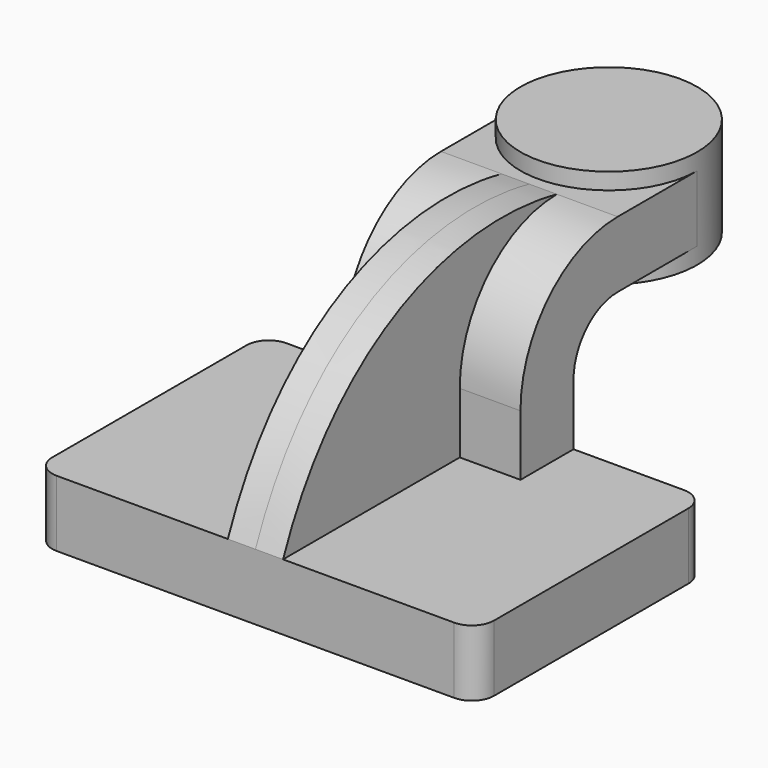
from build123d import *

# Parameters (mm, degrees)
F1_DEPTH = 63.5
F0_W     = 25.4
F0_H     = 19.05
F2_DEPTH = 25.4
F3_DEPTH = 7.9375
F5_R     = 6.35


with BuildPart() as f1:
    # F0 (on Right) → F1 (new body, symmetric)
    with BuildSketch(Plane.YZ):
        Polygon((41.275, -9.525), (41.275, 9.525), (22.225, 9.525), (-41.275, 9.525), (-41.275, -9.525), align=None)
    extrude(amount=F1_DEPTH, both=True)

    # F0 (on Right) → F2 (join, symmetric)
    with BuildSketch(Plane.YZ):
        with BuildLine():
            Line((22.225, 9.525), (41.275, 9.525))
            Line((41.275, 9.525), (41.275, 27.0002))
            ThreePointArc((41.275, 27.0002), (45.9246798487, 38.2255201513), (57.15, 42.8752))
            Line((57.15, 42.8752), (60.325, 42.8752))
            Line((60.325, 42.8752), (60.325, 61.9252))
            Line((60.325, 61.9252), (57.15, 61.9252))
            ThreePointArc((57.15, 61.9252), (32.4542956671, 51.6959043329), (22.225, 27.0002))
            Line((22.225, 27.0002), (22.225, 9.525))
        make_face()
        with Locations((73.025, 52.4002)):
            Rectangle(F0_W, F0_H)
    extrude(amount=F2_DEPTH, both=True)

    # F0 (on Right) → F3 (join, symmetric)
    with BuildSketch(Plane.YZ):
        with BuildLine():
            Line((-41.275, 9.525), (22.225, 9.525))
            Line((22.225, 9.525), (22.225, 27.0002))
            ThreePointArc((22.225, 27.0002), (32.4542956671, 51.6959043329), (57.15, 61.9252))
            add(Edge.make_bspline(
                [(-41.275, 9.525), (-22.6719081402, 55.217768997), (19.6355376393, 70.1836645603), (57.15, 61.9252)],
                knots=[0, 0, 0, 0, 111.5045361635, 111.5045361635, 111.5045361635, 111.5045361635], degree=3))
        make_face()
    extrude(amount=F3_DEPTH, both=True)

    # F5
    f5_edges = [f1.edges().sort_by_distance(p)[0] for p in [
        (63.5, -41.275, 0),
        (63.5, 41.275, 0),
        (-63.5, -41.275, 0),
        (-63.5, 41.275, 0),
    ]]
    fillet(f5_edges, radius=F5_R)


with BuildPart() as f4:
    # F0 (on Right) → F4 (revolve)
    with BuildSketch(Plane.YZ):
        Polygon((85.725, 61.9252), (85.725, 42.8752), (85.725, 38.1), (111.125, 38.1), (111.125, 66.675), (85.725, 66.675), align=None)
    revolve(axis=Axis((0, 85.725, 52.3875), (0, 0, -1)))


solid = Compound([f1.part, f4.part])
